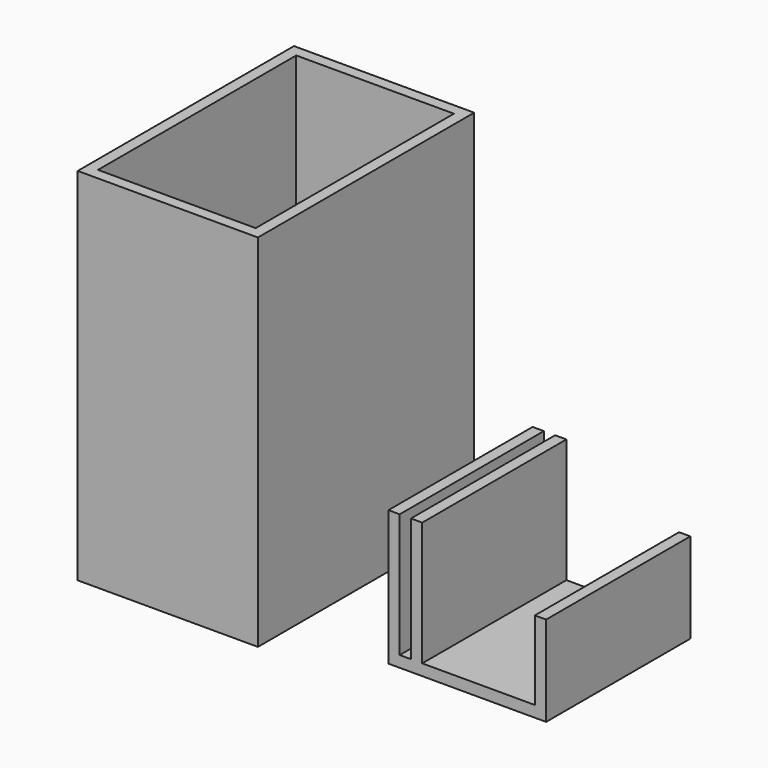
from build123d import *

# Parameters (mm, degrees)
F0_W     = 25.4
F0_H     = 38.1
F1_DEPTH = 50.8
F2_T     = -1.5875
F3_W     = 15.875
F3_H     = 25.4
F3_W_2   = 1.5875
F4_DEPTH = 1.5875
F5_DEPTH = 19.05
F6_DEPTH = 12.7


with BuildPart() as f1:
    # F0 (on Top) → F1 (new body)
    with BuildSketch(Plane.XY):
        with Locations((-12.7, 19.05)):
            Rectangle(F0_W, F0_H)
    extrude(amount=F1_DEPTH)

    # F2
    f2_openings = [f1.faces().sort_by_distance(p)[0] for p in [
        (-12.7, 19.05, 50.8),
    ]]
    offset(amount=F2_T, openings=f2_openings)


with BuildPart() as f4:
    # F3 (on Top) → F4 (new body)
    with BuildSketch(Plane.XY):
        with Locations((26.411352, 18.55439)):
            Rectangle(F3_W, F3_H)
        with Locations((35.142602, 18.55439)):
            Rectangle(F3_W_2, F3_H)
        with Locations((17.680102, 18.55439)):
            Rectangle(F3_W_2, F3_H)
        with Locations((16.092602, 18.55439)):
            Rectangle(F3_W_2, F3_H)
        with Locations((14.505102, 18.55439)):
            Rectangle(F3_W_2, F3_H)
    extrude(amount=F4_DEPTH)

    # F3 (on Top) → F5 (join)
    with BuildSketch(Plane.XY):
        with Locations((14.505102, 18.55439)):
            Rectangle(F3_W_2, F3_H)
        with Locations((17.680102, 18.55439)):
            Rectangle(F3_W_2, F3_H)
    extrude(amount=F5_DEPTH)

    # F3 (on Top) → F6 (join)
    with BuildSketch(Plane.XY):
        with Locations((35.142602, 18.55439)):
            Rectangle(F3_W_2, F3_H)
    extrude(amount=F6_DEPTH)


solid = Compound([f1.part, f4.part])
